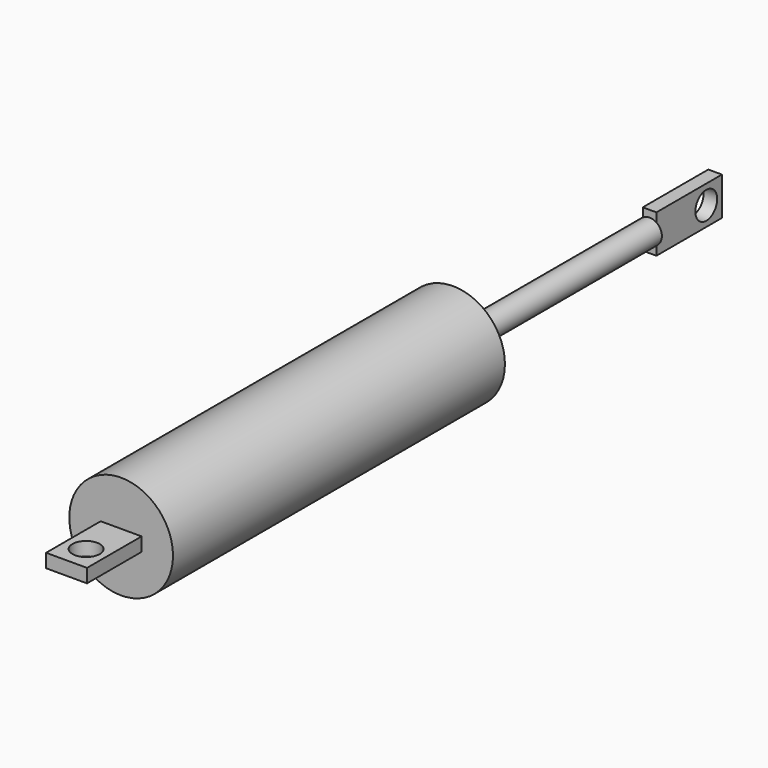
from build123d import *

# Parameters (mm, degrees)
F0_R      = 19
F1_DEPTH  = 152
F2_R      = 4.5
F3_DEPTH  = 90
F5_DEPTH  = 30
F6_R      = 5
F7_DEPTH  = 25
F8_W      = 15
F8_H      = 5
F9_DEPTH  = 25
F10_R     = 5
F11_DEPTH = 25


with BuildPart() as f1:
    # F0 (on Front) → F1 (new body)
    with BuildSketch(Plane.XZ):
        Circle(F0_R)
    extrude(amount=F1_DEPTH)

    # F8 (on face) → F9 (join)
    with BuildSketch(Plane.XZ.offset(152)):
        Rectangle(F8_W, F8_H)
    extrude(amount=F9_DEPTH)

    # F10 (on face) → F11 (cut)
    with BuildSketch(Plane(origin=(0, 0, -2.5), x_dir=(1, 0, 0), z_dir=(0, 0, -1))):
        with Locations((0, 168.0401433565)):
            Circle(F10_R)
    extrude(amount=-F11_DEPTH, mode=Mode.SUBTRACT)


with BuildPart() as f3:
    # F2 (on face) → F3 (new body)
    with BuildSketch(Plane(origin=(0, 0, 0), x_dir=(-1, 0, 0), z_dir=(0, 1, 0))):
        Circle(F2_R)
    extrude(amount=F3_DEPTH)

    # F4 (on face) → F5 (join)
    with BuildSketch(Plane(origin=(0, 90, 0), x_dir=(-1, 0, 0), z_dir=(0, 1, 0))):
        with BuildLine():
            Line((2.5, -7), (2.5, -3.7416573868))
            ThreePointArc((2.5, -3.7416573868), (0, -4.5), (-2.5, -3.7416573868))
            Line((-2.5, -3.7416573868), (-2.5, -7))
            Line((-2.5, -7), (2.5, -7))
        make_face()
        with BuildLine():
            Line((2.5, -3.7416573868), (2.5, 3.7416573868))
            ThreePointArc((2.5, 3.7416573868), (0, 4.5), (-2.5, 3.7416573868))
            Line((-2.5, 3.7416573868), (-2.5, -3.7416573868))
            ThreePointArc((-2.5, -3.7416573868), (0, -4.5), (2.5, -3.7416573868))
        make_face()
        with BuildLine():
            Line((2.5, 3.7416573868), (2.5, 7))
            Line((2.5, 7), (-2.5, 7))
            Line((-2.5, 7), (-2.5, 3.7416573868))
            ThreePointArc((-2.5, 3.7416573868), (0, 4.5), (2.5, 3.7416573868))
        make_face()
    extrude(amount=F5_DEPTH)

    # F6 (on face) → F7 (cut)
    with BuildSketch(Plane.YZ.offset(2.5)):
        with Locations((112.8298740598, 0)):
            Circle(F6_R)
    extrude(amount=-F7_DEPTH, mode=Mode.SUBTRACT)


solid = Compound([f1.part, f3.part])
